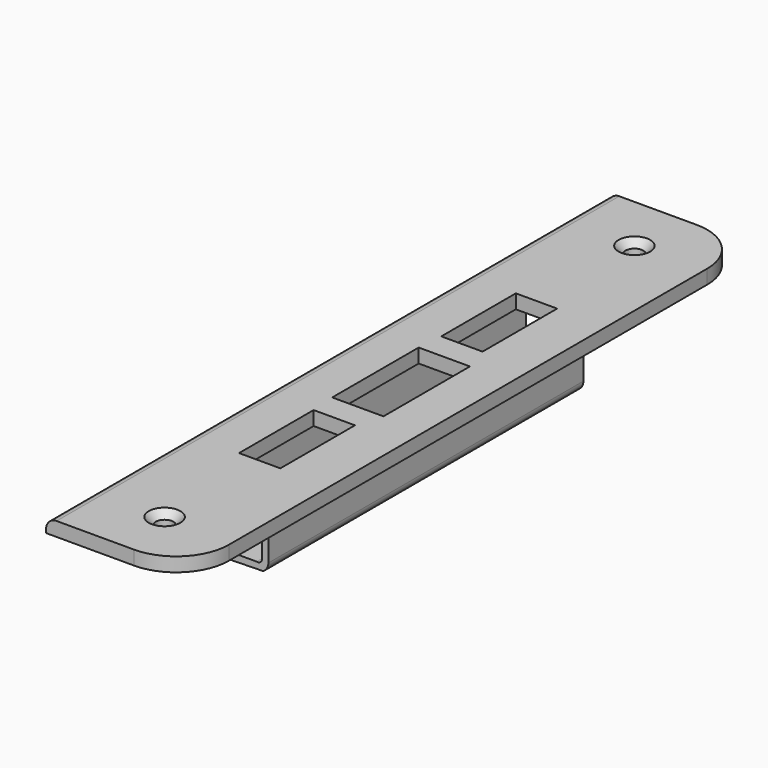
from build123d import *

# Parameters (mm, degrees)
F0_R     = 2.5
F0_W     = 11.7464
F0_H     = 26.505243
F0_W_2   = 14.56834
F0_H_2   = 30.733124
F1_DEPTH = 4
F2_SIZE  = 2
F4_DEPTH = 56
F5_R     = 3


with BuildPart() as f1:
    # F0 (on Top) → F1 (new body)
    with BuildSketch(Plane.XY):
        with BuildLine():
            ThreePointArc((20, 85), (15.606602, 95.606602), (5, 100))
            Line((5, 100), (-20, 100))
            Line((-20, 100), (-20, -100))
            Line((-20, -100), (5, -100))
            ThreePointArc((5, -100), (15.606602, -95.606602), (20, -85))
            Line((20, -85), (20, 85))
        make_face()
        with Locations((0.5, -83.5)):
            Circle(F0_R, mode=Mode.SUBTRACT)
        with Locations((0.098345, -35.93968)):
            Rectangle(F0_W, F0_H, mode=Mode.SUBTRACT)
        with Locations((0.947373, 0)):
            Rectangle(F0_W_2, F0_H_2, mode=Mode.SUBTRACT)
        with Locations((0.098345, 35.93968)):
            Rectangle(F0_W, F0_H, mode=Mode.SUBTRACT)
        with Locations((0.5, 83.5)):
            Circle(F0_R, mode=Mode.SUBTRACT)
    extrude(amount=-F1_DEPTH)

    # F2
    f2_edges = [f1.edges().sort_by_distance(p)[0] for p in [
        (-2, -83.5, 0),
        (-2, 83.5, 0),
    ]]
    chamfer(f2_edges, length=F2_SIZE)

    # F3 (on Front) → F4 (join, symmetric)
    with BuildSketch(Plane.XZ):
        with BuildLine():
            Line((8.001845, -20.259996), (8.01102, -6.651434))
            Line((8.01102, -6.651434), (10.020183, -3.892345))
            Line((10.020183, -3.892345), (7.950272, -3.389892))
            Line((7.950272, -3.389892), (6.068421, -6.165784))
            Line((6.068421, -6.165784), (6.245231, -19.775091))
            ThreePointArc((6.245231, -19.775091), (5.774018, -20.746688), (4.723544, -20.996785))
            Line((4.723544, -20.996785), (-7.11199, -20.996785))
            ThreePointArc((-7.11199, -20.996785), (-7.875169, -20.761546), (-8.37348, -20.137473))
            Line((-8.37348, -20.137473), (-8.37348, -4))
            Line((-8.37348, -4), (-10.235702, -4))
            Line((-10.235702, -4), (-10.235702, -20.073208))
            ThreePointArc((-10.235702, -20.073208), (-9.544714, -22.146454), (-7.563292, -23.068289))
            Line((-7.563292, -23.068289), (6.496039, -22.776224))
            ThreePointArc((6.496039, -22.776224), (7.596641, -21.726186), (8.001845, -20.259996))
        make_face()
    extrude(amount=F4_DEPTH, both=True)

    # F5
    f5_edges = [f1.edges().sort_by_distance(p)[0] for p in [
        (-20, 0, 0),
    ]]
    fillet(f5_edges, radius=F5_R)


solid = f1.part
